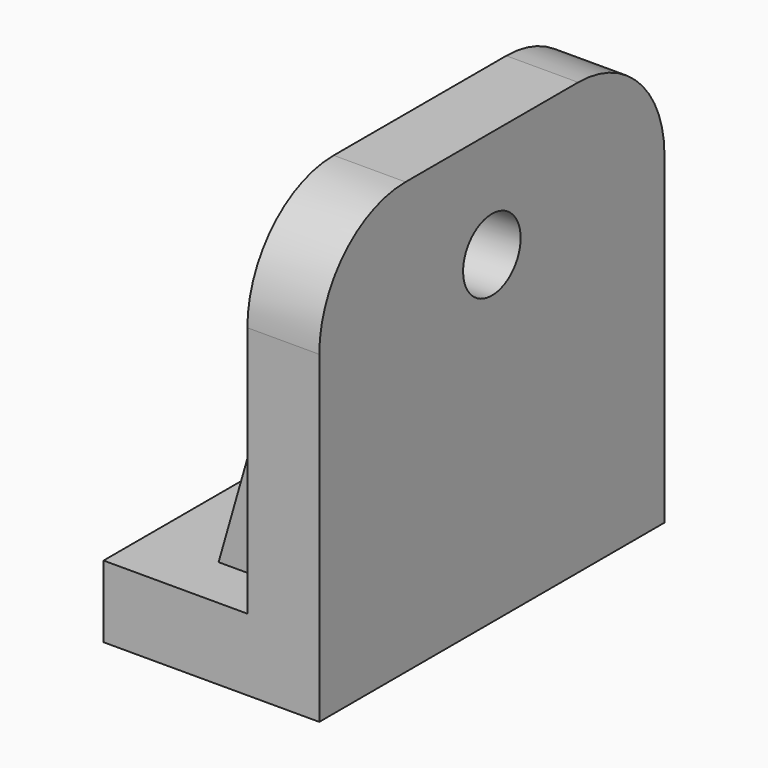
from build123d import *

# Parameters (mm, degrees)
F1_DEPTH  = 76.2
F2_R      = 12.7
F3_DEPTH  = 76.201
F5_DEPTH  = 25.401
F6_R      = 38.1
F7_R      = 38.1
F8_R      = 15.875
F8_R_2    = 12.7
F9_DEPTH  = 6.35
F12_DEPTH = 12.7


with BuildPart() as f1:
    # F0 (on Front) → F1 (new body, symmetric)
    with BuildSketch(Plane.XZ):
        Polygon((-76.2, 0), (0, 0), (0, 152.4), (-25.4, 152.4), (-25.4, 25.4), (-76.2, 25.4), align=None)
    extrude(amount=F1_DEPTH, both=True)

    # F2 (on face) → F3 (cut, through all)
    with BuildSketch(Plane.YZ):
        with Locations((0, 114.3)):
            Circle(F2_R)
    extrude(amount=-F3_DEPTH, mode=Mode.SUBTRACT)

    # F4 (on face) → F5 (cut, through all)
    with BuildSketch(Plane.XY.offset(25.4)):
        with BuildLine():
            Line((-76.2, 12.7), (-76.2, 0))
            Line((-76.2, 0), (-76.2, -12.7))
            Line((-76.2, -12.7), (-63.5, -12.7))
            ThreePointArc((-63.5, -12.7), (-50.8, 0), (-63.5, 12.7))
            Line((-63.5, 12.7), (-76.2, 12.7))
        make_face()
    extrude(amount=-F5_DEPTH, mode=Mode.SUBTRACT)

    # F6
    f6_edges = [f1.edges().sort_by_distance(p)[0] for p in [
        (-12.7, -76.2, 152.4),
    ]]
    fillet(f6_edges, radius=F6_R)

    # F7
    f7_edges = [f1.edges().sort_by_distance(p)[0] for p in [
        (-12.7, 76.2, 152.4),
    ]]
    fillet(f7_edges, radius=F7_R)

    # F8 (on face) → F9 (cut)
    with BuildSketch(Plane(origin=(-25.4, 0, 0), x_dir=(0, -1, 0), z_dir=(-1, 0, 0))):
        with Locations((0, 114.3)):
            Circle(F8_R)
        with Locations((0, 114.3)):
            Circle(F8_R_2, mode=Mode.SUBTRACT)
    extrude(amount=-F9_DEPTH, mode=Mode.SUBTRACT)

    # F11 (on offset) → F12 (join)
    with BuildSketch(Plane.XZ.offset(44.45)):
        Polygon((-50.8, 25.4), (-25.4, 25.4), (-25.4, 114.3), align=None)
    extrude(amount=F12_DEPTH)


solid = f1.part
